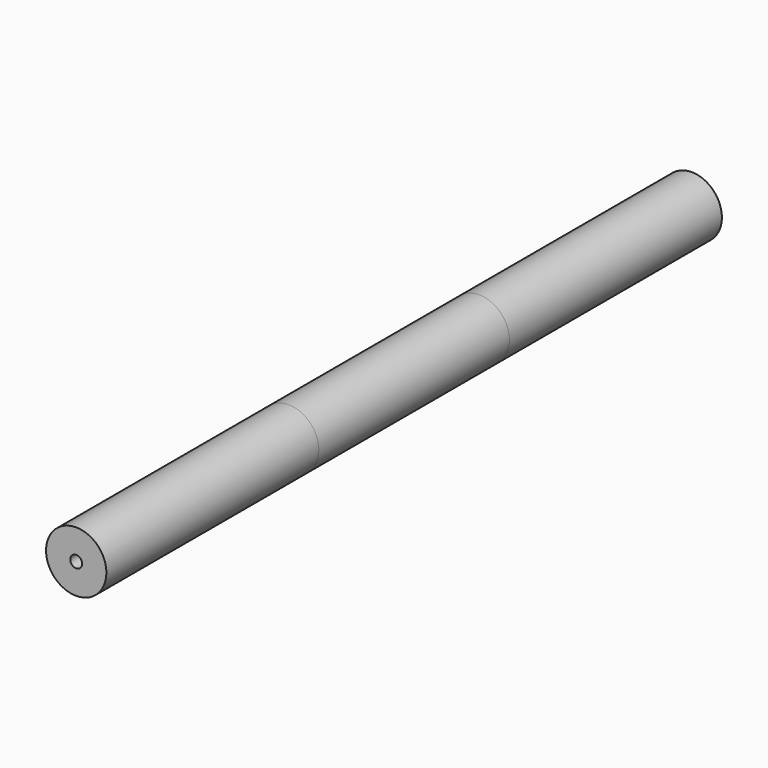
from build123d import *

# Parameters (mm, degrees)
F0_R        = 63.5
F0_R_2      = 12.5
F1_DEPTH    = 20
F2_DEPTH    = 1060
F2_FACE_R   = 63.5
F2_FACE_R_2 = 12.5
F3_DEPTH    = 558.8


with BuildPart() as f1:
    # F0 (on Front) → F1 (new body)
    with BuildSketch(Plane.XZ):
        Circle(F0_R)
        Circle(F0_R_2, mode=Mode.SUBTRACT)
        Circle(F0_R_2)
    extrude(amount=F1_DEPTH)

    # F0 (on Front) → F2 (join)
    with BuildSketch(Plane.XZ):
        Circle(F0_R)
        Circle(F0_R_2, mode=Mode.SUBTRACT)
    extrude(amount=F2_DEPTH)

    # F0 (on Front) + F2_face (on face) → F3 (join)
    with BuildSketch(Plane.XZ):
        Circle(F0_R)
        Circle(F0_R_2, mode=Mode.SUBTRACT)
    with BuildSketch(Plane.XZ.offset(1060)):
        Circle(F2_FACE_R)
        Circle(F2_FACE_R_2, mode=Mode.SUBTRACT)
    extrude(amount=-F3_DEPTH)


solid = f1.part
